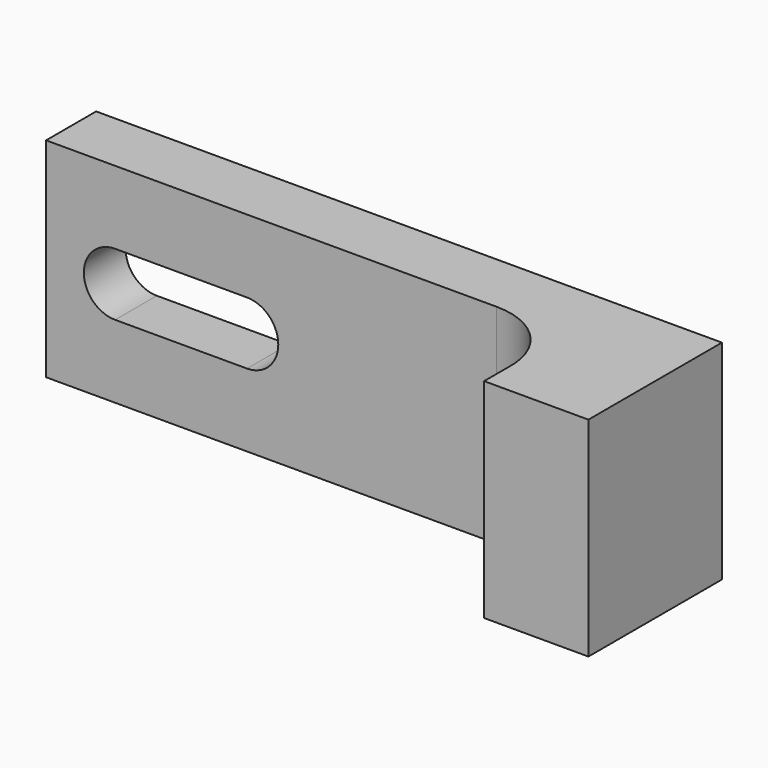
from build123d import *

# Parameters (mm, degrees)
PAD_DEPTH       = 10
POCKET_DEPTH    = 8.001
POCKET001_DEPTH = 0.5


with BuildPart() as part:
    # Sketch → Pad (new body)
    with BuildSketch(Plane.XY):
        with BuildLine():
            Line((-30, 0), (-8.401164, 0))
            ThreePointArc((-5, -3.555465), (-5.94439, -1.054359), (-8.401164, 0))
            Line((-5, -3.555465), (-5, -5))
            Line((-5, -5), (0, -5))
            Line((0, -5), (0, 3))
            Line((0, 3), (-30, 3))
            Line((-30, 3), (-30, 0))
        make_face()
    extrude(amount=PAD_DEPTH)

    # Sketch001 (on DatumPlane) → Pocket (cut, through all)
    with BuildSketch(Plane(origin=(0, 3, 0), x_dir=(-1, 0, 0), z_dir=(0, 1, 0))):
        with BuildLine():
            ThreePointArc((20.368423, 6.5), (18.868423, 5), (20.368423, 3.5))
            Line((20.368423, 3.5), (26.690333, 3.5))
            ThreePointArc((26.690333, 3.5), (28.190333, 5), (26.690333, 6.5))
            Line((20.368423, 6.5), (26.690333, 6.5))
        make_face()
    extrude(amount=-POCKET_DEPTH, mode=Mode.SUBTRACT)

    # Sketch002 (on DatumPlane) → Pocket001 (cut)
    with BuildSketch(Plane(origin=(0, 3, 0), x_dir=(-1, 0, 0), z_dir=(0, 1, 0))):
        with BuildLine():
            ThreePointArc((20.368423, 7.249783), (18.118423, 4.999783), (20.368423, 2.749783))
            Line((20.368423, 2.749783), (26.690333, 2.749783))
            ThreePointArc((26.690333, 2.749783), (28.940333, 4.999783), (26.690333, 7.249783))
            Line((20.368423, 7.249783), (26.690333, 7.249783))
        make_face()
    extrude(amount=-POCKET001_DEPTH, mode=Mode.SUBTRACT)


solid = part.part
